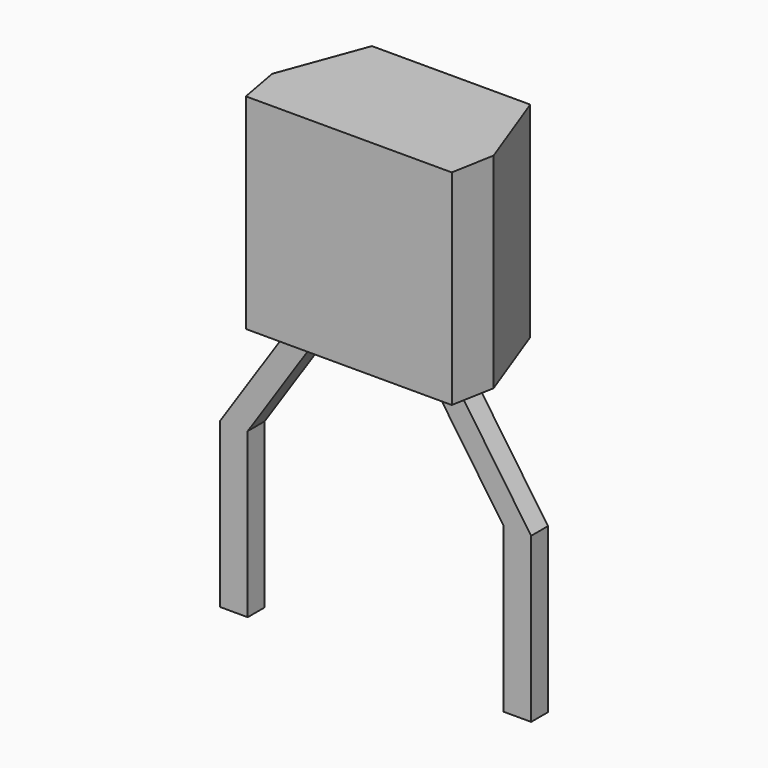
from build123d import *

# Parameters (mm, degrees)
PAD_DEPTH    = 3.7
PAD001_DEPTH = 0.19


with BuildPart() as pad:
    # Sketch → Pad (new body)
    with BuildSketch(Plane.XY.offset(2.5)):
        Polygon((1.11, 1.54), (3.97, 1.54), (4.54, 0), (4.4, -0.77), (0.68, -0.77), (0.54, 0), align=None)
    extrude(amount=PAD_DEPTH)


with BuildPart() as to_92s_2_wide:
    # Sketch001 → Pad001 (new body, symmetric)
    with BuildSketch(Plane.XZ):
        Polygon((0.25, -2.46), (-0.25, -2.46), (-0.25, 0.5), (1.02, 2.4), (1.02, 3.04), (1.52, 3.04), (1.52, 2.4), (0.25, 0.5), align=None)
        Polygon((3.56, 3.04), (4.06, 3.04), (4.06, 2.4), (5.37, 0.5), (5.37, -2.46), (4.87, -2.46), (4.87, 0.5), (3.56, 2.4), align=None)
    extrude(amount=PAD001_DEPTH, both=True)

    add(pad.part)


solid = to_92s_2_wide.part
